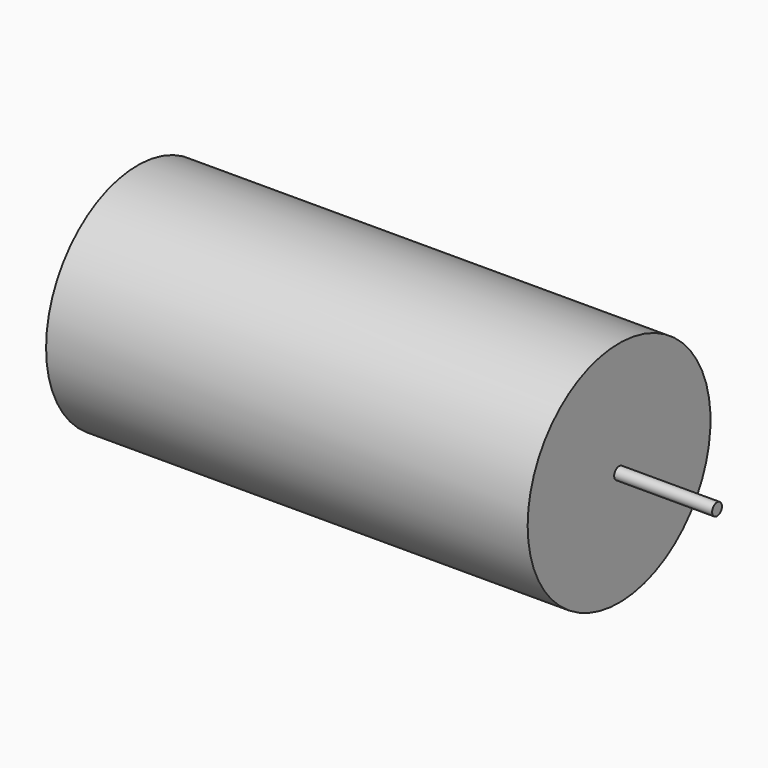
from build123d import *

# Parameters (mm, degrees)
F0_R     = 19.05
F1_DEPTH = 1828.8
F3_START = -25.4
F2_R     = 355.6
F3_DEPTH = 1498.6


with BuildPart() as f1:
    # F0 (on Right) → F1 (new body)
    with BuildSketch(Plane.YZ):
        Circle(F0_R)
    extrude(amount=-F1_DEPTH)

    # F2 (on face) → F3 (join)
    with BuildSketch(Plane(origin=(-1828.8, 0, 0), x_dir=(0, -1, 0), z_dir=(-1, 0, 0)).offset(F3_START)):
        Circle(F2_R)
    extrude(amount=-F3_DEPTH)


solid = f1.part
